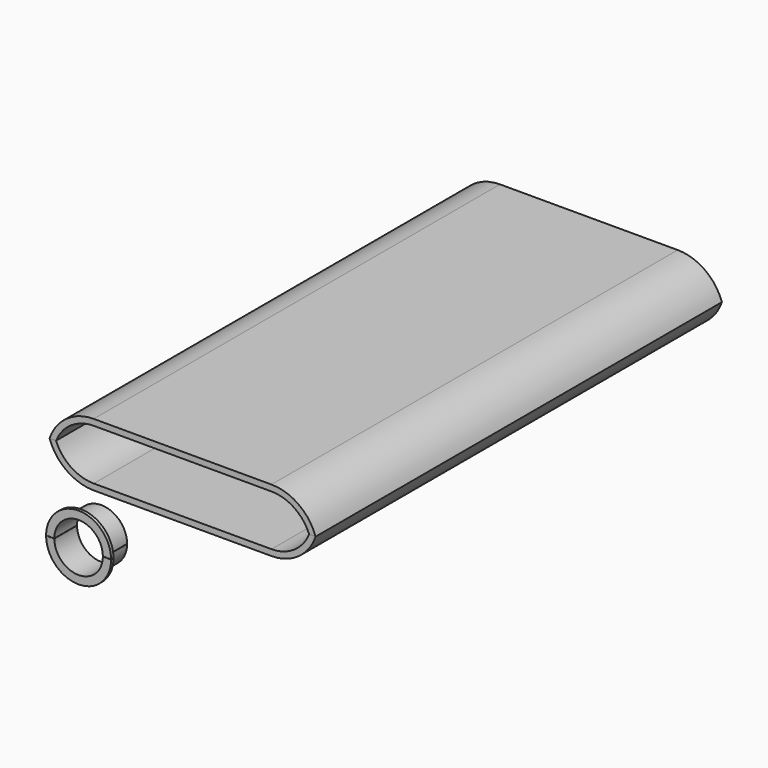
from build123d import *

# Parameters (mm, degrees)
F1_DEPTH       = 250
F4_R           = 25.4
F4_R_2         = 23.9
F5_DEPTH       = 25
F6_R           = 32
F6_R_2         = 23.9
F7_DEPTH       = 3
F9_W           = 28
F9_H           = 0.1
F10_DEPTH      = 130.9866298103
F10_DEPTH_BACK = 130.9866298103


with BuildPart() as f1:
    # F0 (on Front) → F1 (new body, symmetric)
    with BuildSketch(Plane.XZ):
        with BuildLine():
            Line((-87.5, 25), (87.5, 25))
            ThreePointArc((87.5, 25), (109.860679775, 18.1662479036), (124.5809924355, 0))
            Line((124.5809924355, 0), (130.9856298103, 0))
            ThreePointArc((130.9856298103, 0), (114.2020598456, 22.4566416007), (87.5, 31))
            Line((87.5, 31), (-87.5, 31))
            ThreePointArc((-87.5, 31), (-114.2020598456, 22.4566416007), (-130.9856298103, 0))
            Line((-130.9856298103, 0), (-124.5809924355, 0))
            ThreePointArc((-124.5809924355, 0), (-109.860679775, 18.1662479036), (-87.5, 25))
        make_face()
    extrude(amount=F1_DEPTH, both=True)


with BuildPart() as f2_1:
    # F2: instance of F1
    add(f1.part.mirror(Plane(origin=(-127.7833111229, 0, 0), x_dir=(1, 0, 0), z_dir=(0, 0, -1))))


with BuildPart() as f5:
    # F4 (on offset) → F5 (new body)
    with BuildSketch(Plane.XZ.offset(350)):
        Circle(F4_R)
        Circle(F4_R_2, mode=Mode.SUBTRACT)
    extrude(amount=F5_DEPTH)

    # F6 (on face) → F7 (join)
    with BuildSketch(Plane.XZ.offset(375)):
        Circle(F6_R)
        Circle(F6_R_2, mode=Mode.SUBTRACT)
    extrude(amount=F7_DEPTH)

    # F9 (on Right) → F10 (cut, two sides)
    with BuildSketch(Plane.YZ) as f10_sk:
        with Locations((-364, -0.05)):
            Rectangle(F9_W, F9_H)
        with Locations((-364, 0.05)):
            Rectangle(F9_W, F9_H)
    extrude(amount=-F10_DEPTH, mode=Mode.SUBTRACT)
    extrude(f10_sk.sketch, amount=F10_DEPTH_BACK, mode=Mode.SUBTRACT)


solid = Compound([f1.part, f2_1.part, f5.part])
